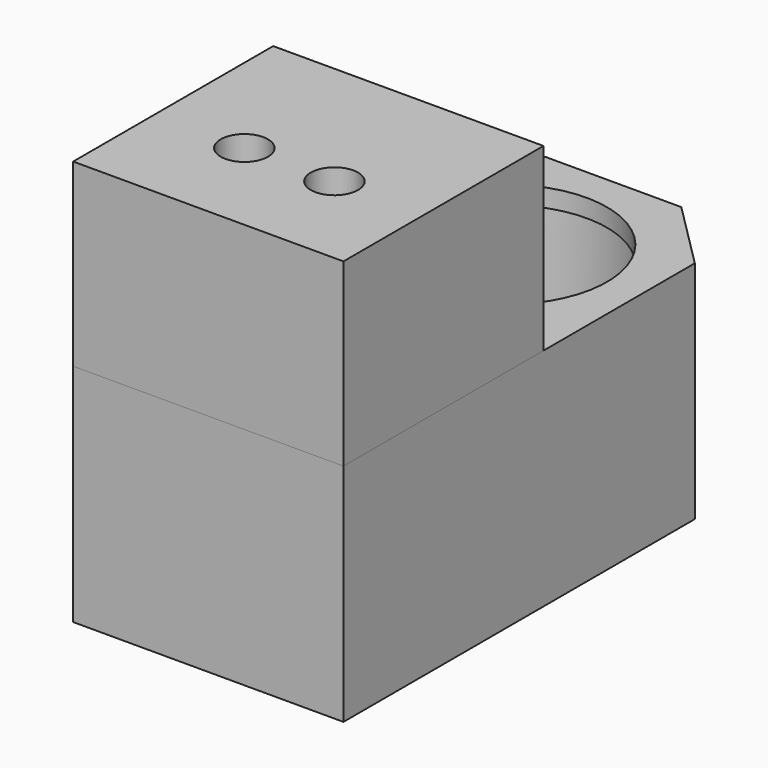
from build123d import *

# Parameters (mm, degrees)
F1_DEPTH  = 50
F2_D      = 8.5
F3_D      = 45
F4_R      = 25
F5_DEPTH  = 46
F7_START  = 3.5
F6_R      = 26.5
F7_DEPTH  = 2.5
F8_W      = 60
F8_H      = 55.5
F8_R      = 5.25
F9_DEPTH  = 40
F10_R     = 14.1
F11_DEPTH = 24


with BuildPart() as f1:
    # F0 (on Top) → F1 (new body)
    with BuildSketch(Plane.XY):
        Polygon((15, 30), (-15, 30), (-30, 15), (-30, -82.5), (30, -82.5), (30, 15), align=None)
    extrude(amount=F1_DEPTH)

    # F2 (through all)
    with Locations(Plane(origin=(0, 0, 0), x_dir=(1, 0, 0), z_dir=(0, 0, -1))):
        with Locations((-10, 60), (10, 60)):
            Hole(F2_D / 2)

    # F3 (through all)
    with Locations(Plane(origin=(0, 0, 0), x_dir=(1, 0, 0), z_dir=(0, 0, -1))):
        with Locations((0, 0)):
            Hole(F3_D / 2)

    # F4 (on Top) → F5 (cut)
    with BuildSketch(Plane.XY):
        Circle(F4_R)
    extrude(amount=F5_DEPTH, mode=Mode.SUBTRACT)

    # F6 (on Top) → F7 (cut)
    with BuildSketch(Plane.XY.offset(F7_START)):
        Circle(F6_R)
    extrude(amount=F7_DEPTH, mode=Mode.SUBTRACT)


with BuildPart() as f9:
    # F8 (on face) → F9 (new body)
    with BuildSketch(Plane.XY.offset(50)):
        with Locations((0, -54.75)):
            Rectangle(F8_W, F8_H)
        with Locations((-10, -60)):
            Circle(F8_R, mode=Mode.SUBTRACT)
        with Locations((10, -60)):
            Circle(F8_R, mode=Mode.SUBTRACT)
    extrude(amount=F9_DEPTH)

    # F10 (on face) → F11 (cut)
    with BuildSketch(Plane(origin=(0, -27, 0), x_dir=(-1, 0, 0), z_dir=(0, 1, 0))):
        with Locations((0, 70)):
            Circle(F10_R)
    extrude(amount=-F11_DEPTH, mode=Mode.SUBTRACT)


solid = Compound([f1.part, f9.part])
